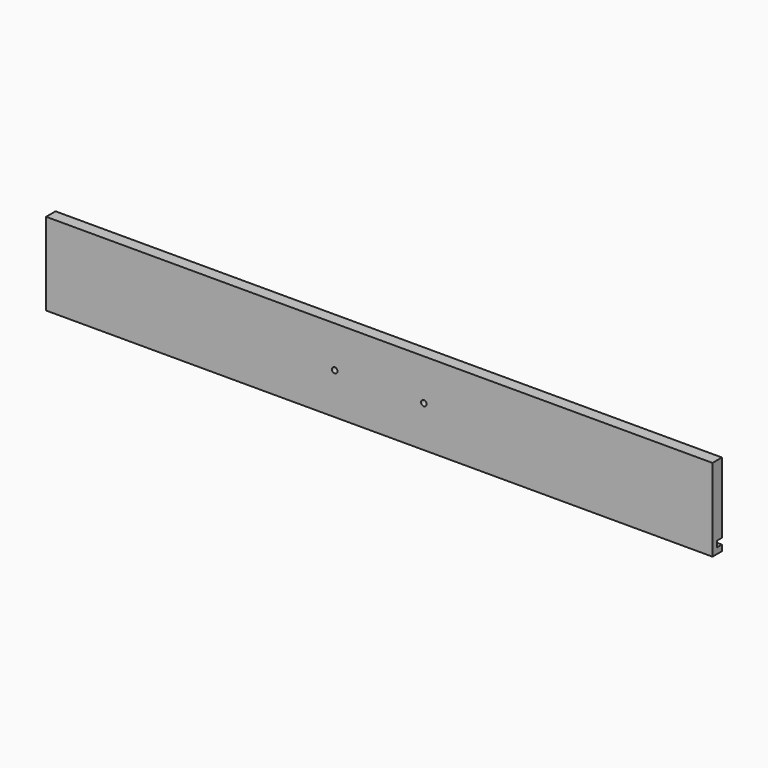
from build123d import *

# Parameters (mm, degrees)
PAD_DEPTH   = 717.5
SKETCH003_R = 3
HOLE_DEPTH  = 12.701


with BuildPart() as part:
    # Sketch → Pad (new body)
    with BuildSketch(Plane.YZ):
        Polygon((0, 0), (12.7, 0), (12.7, 6.35), (6.35, 6.35), (6.35, 12.7), (12.7, 12.7), (12.7, 88.9), (0, 88.9), align=None)
    extrude(amount=PAD_DEPTH)

    # Sketch003 → Hole (cut, through all)
    with BuildSketch(Plane(origin=(0, 0, 0), x_dir=(0, 0, -1), z_dir=(0, -1, 0))):
        with Locations((-44.45, 310.75)):
            Circle(SKETCH003_R)
        with Locations((-44.45, 406.75)):
            Circle(SKETCH003_R)
    extrude(amount=-HOLE_DEPTH, mode=Mode.SUBTRACT)


solid = part.part
